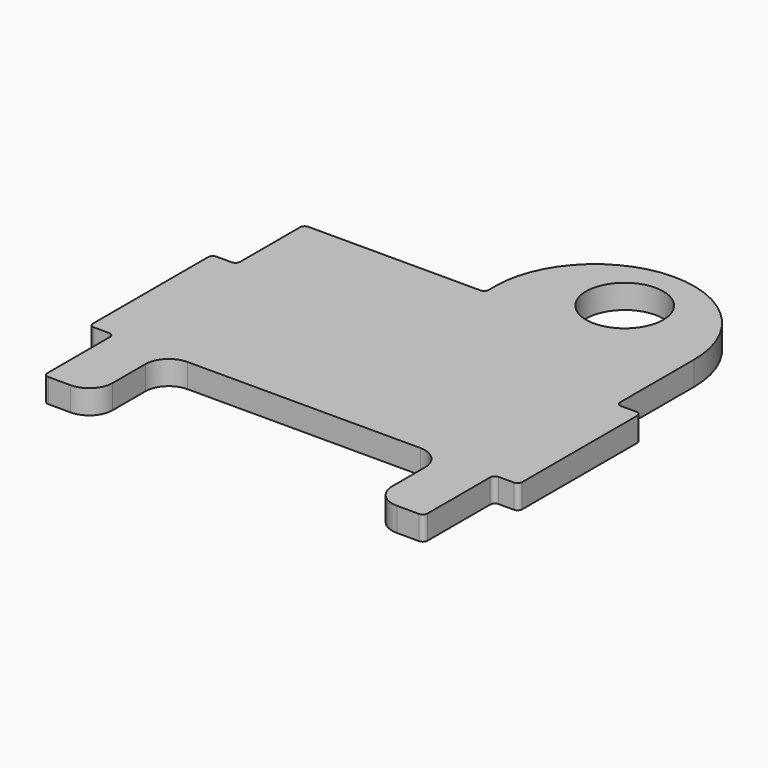
from build123d import *

# Parameters (mm, degrees)
F0_R     = 3.3
F1_DEPTH = 2.05


with BuildPart() as f1:
    # F0 (on Top) → F1 (new body)
    with BuildSketch(Plane.XY):
        with BuildLine():
            Line((0, -6.8), (0, 0))
            Line((0, 0), (0, 1.1))
            ThreePointArc((0, 1.1), (-2.489592, 7.110408), (-8.5, 9.6))
            ThreePointArc((-8.5, 9.6), (-14.510408, 7.110408), (-17, 1.1))
            Line((-17, 1.1), (-17, 0.4))
            ThreePointArc((-17, 0.4), (-17.117157, 0.117157), (-17.4, 0))
            Line((-17.4, 0), (-32.1, 0))
            ThreePointArc((-32.1, 0), (-32.382843, -0.117157), (-32.5, -0.4))
            Line((-32.5, -0.4), (-32.5, -6.8))
            ThreePointArc((-32.5, -6.8), (-32.617157, -7.082843), (-32.9, -7.2))
            Line((-32.9, -7.2), (-34.2, -7.2))
            ThreePointArc((-34.2, -7.2), (-34.482843, -7.317157), (-34.6, -7.6))
            Line((-34.6, -7.6), (-34.6, -19.9))
            ThreePointArc((-34.6, -19.9), (-34.482843, -20.182843), (-34.2, -20.3))
            Line((-34.2, -20.3), (-32.9, -20.3))
            ThreePointArc((-32.9, -20.3), (-32.617157, -20.417157), (-32.5, -20.7))
            Line((-32.5, -20.7), (-32.5, -27.4))
            ThreePointArc((-32.5, -27.4), (-32.382843, -27.682843), (-32.1, -27.8))
            Line((-32.1, -27.8), (-30.2, -27.8))
            ThreePointArc((-30.2, -27.8), (-28.785786, -27.214214), (-28.2, -25.8))
            Line((-28.2, -25.8), (-28.2, -22.3))
            ThreePointArc((-28.2, -22.3), (-27.614214, -20.885786), (-26.2, -20.3))
            Line((-26.2, -20.3), (-6.3, -20.3))
            ThreePointArc((-6.3, -20.3), (-4.885786, -20.885786), (-4.3, -22.3))
            Line((-4.3, -22.3), (-4.3, -25.8))
            ThreePointArc((-4.3, -25.8), (-3.714214, -27.214214), (-2.3, -27.8))
            Line((-2.3, -27.8), (-0.4, -27.8))
            ThreePointArc((-0.4, -27.8), (-0.117157, -27.682843), (0, -27.4))
            Line((0, -27.4), (0, -20.7))
            ThreePointArc((0, -20.7), (0.117157, -20.417157), (0.4, -20.3))
            Line((0.4, -20.3), (1.7, -20.3))
            ThreePointArc((1.7, -20.3), (1.982843, -20.182843), (2.1, -19.9))
            Line((2.1, -19.9), (2.1, -7.6))
            ThreePointArc((2.1, -7.6), (1.982843, -7.317157), (1.7, -7.2))
            Line((1.7, -7.2), (0.4, -7.2))
            ThreePointArc((0.4, -7.2), (0.117157, -7.082843), (0, -6.8))
        make_face()
        with Locations((-8.5, 4.3)):
            Circle(F0_R, mode=Mode.SUBTRACT)
    extrude(amount=F1_DEPTH)


solid = f1.part
